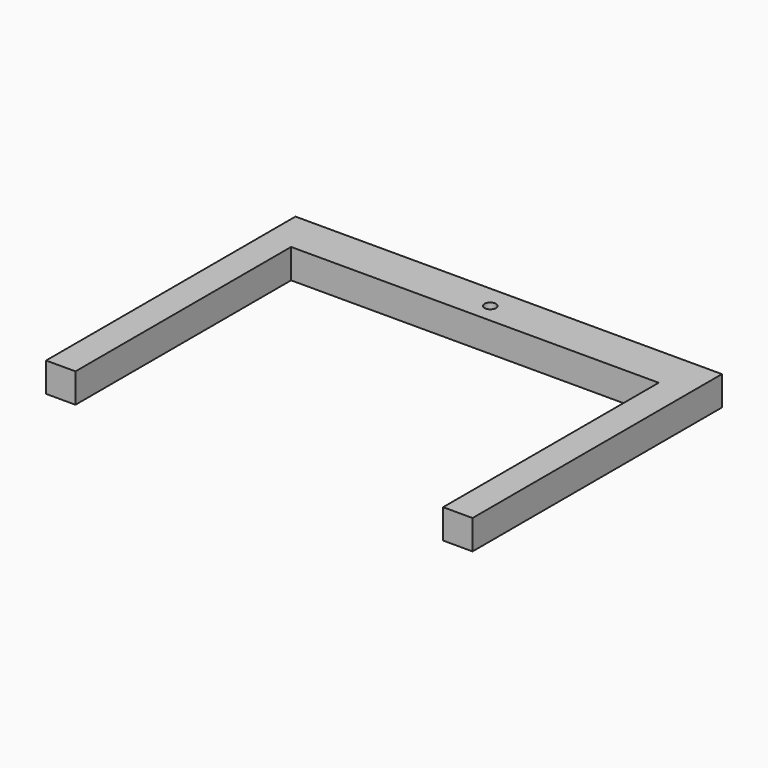
from build123d import *

# Parameters (mm, degrees)
F1_DEPTH = 5.08
F2_R     = 1.000001
F3_DEPTH = 25.4


with BuildPart() as f1:
    # F0 (on Top) → F1 (new body)
    with BuildSketch(Plane.XY):
        Polygon((-18.746261, 30.142592), (-18.746261, -23.701382), (-13.666261, -23.701382), (-13.666261, 22.842703), (49.833739, 22.842703), (49.833739, -23.701382), (54.913739, -23.701382), (54.913739, 30.142592), align=None)
    extrude(amount=F1_DEPTH)

    # F2 (on face) → F3 (cut)
    with BuildSketch(Plane.XY.offset(5.08)):
        with Locations((18.083739, 26.173044)):
            Circle(F2_R)
    extrude(amount=-F3_DEPTH, mode=Mode.SUBTRACT)


solid = f1.part
